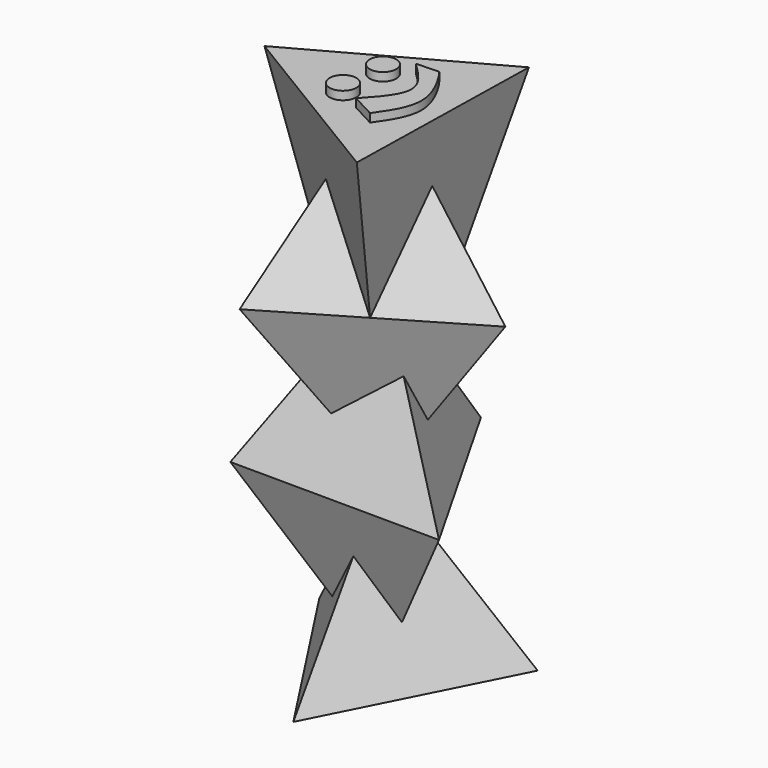
from build123d import *

# Parameters (mm, degrees)
F16_R     = 7.9698515936
F16_R_2   = 7.9172343221
F17_DEPTH = 5


with BuildPart() as f3:
    # F0 (on Top) → F3 section 0
    with BuildSketch(Plane.XY, mode=Mode.PRIVATE) as f3_s0:
        Polygon((0.4073861914, 72.1302863076), (-62.6703534203, -35.7123363628), (62.2629672289, -36.4179499447), align=None)
    loft([f3_s0.sketch, Vertex(0, 0, 100)])

    # F4 (on offset) → F5 section 0
    with BuildSketch(Plane.XY.offset(100), mode=Mode.PRIVATE) as f5_s0:
        Polygon((72.1279709711, 0.706893576), (-36.6761732802, 62.1112083964), (-35.4517976909, -62.8181019724), align=None)
    loft([f5_s0.sketch, Vertex(0, 0, 0)])

    # F5_face (on face) → F10 section 0
    with BuildSketch(Plane.XY.offset(100), mode=Mode.PRIVATE) as f10_s0:
        Polygon((-35.4517976909, -62.8181019724), (72.1279709711, 0.706893576), (-36.6761732802, 62.1112083964), align=None)
    loft([f10_s0.sketch, Vertex(0, 0, 200)])

    # F3_face (on face) → F11 section 0
    with BuildSketch(Plane(origin=(0, 0, 0), x_dir=(1, 0, 0), z_dir=(0, 0, -1)), mode=Mode.PRIVATE) as f11_s0:
        Polygon((-62.6703534203, 35.7123363628), (0.4073861914, -72.1302863076), (62.2629672289, 36.4179499447), align=None)
    loft([f11_s0.sketch, Vertex(0, 0, -100)])

    # F12 (on offset) → F13 section 0
    with BuildSketch(Plane.XY.offset(200), mode=Mode.PRIVATE) as f13_s0:
        Polygon((-72.1151262546, 1.5337731971), (34.729276575, -63.2204179321), (37.3858496796, 61.686644735), align=None)
    loft([f13_s0.sketch, Vertex(0, 0, 0)])

    # F14 (on offset) → F15 section 0
    with BuildSketch(Plane.XY.offset(-100), mode=Mode.PRIVATE) as f15_s0:
        Polygon((3.9172189187, -72.0249907385), (60.4168622275, 39.404906465), (-64.3340811462, 32.6200842734), align=None)
    loft([f15_s0.sketch, Vertex(0, 0, 0)])

    # F16 (on offset) → F17 (join)
    with BuildSketch(Plane.XY.offset(200)):
        with Locations((-14.4072528929, -12.0968222618)):
            Circle(F16_R)
        with Locations((-11.618857272, 14.2046045512)):
            Circle(F16_R_2)
        with BuildLine():
            Line((0, -20.3613266349), (14.4505379722, -28.0257780105))
            add(Edge.make_bspline(
                [(14.4505379722, -28.0257780105), (20.5031350206, -19.362007973), (32.2544355779, -2.5410359414), (14.4116547637, 23.9984281751), (13.5612826949, 24.6133738576), (13.4361311793, 24.7038770467)],
                knots=[0, 0, 0, 0, 0.4752828108, 0.9227759779, 1, 1, 1, 1], degree=3))
            Line((13.4361311793, 24.7038770467), (0, 24.1440590471))
            add(Edge.make_bspline(
                [(0, -20.3613266349), (7.3122692601, -12.4437830296), (21.681873302, 3.1152674575), (7.141301884, 17.2178609781), (0, 24.1440590471)],
                knots=[0, 0, 0, 0, 0.508870616, 1, 1, 1, 1], degree=3))
        make_face()
    extrude(amount=F17_DEPTH)


solid = f3.part
